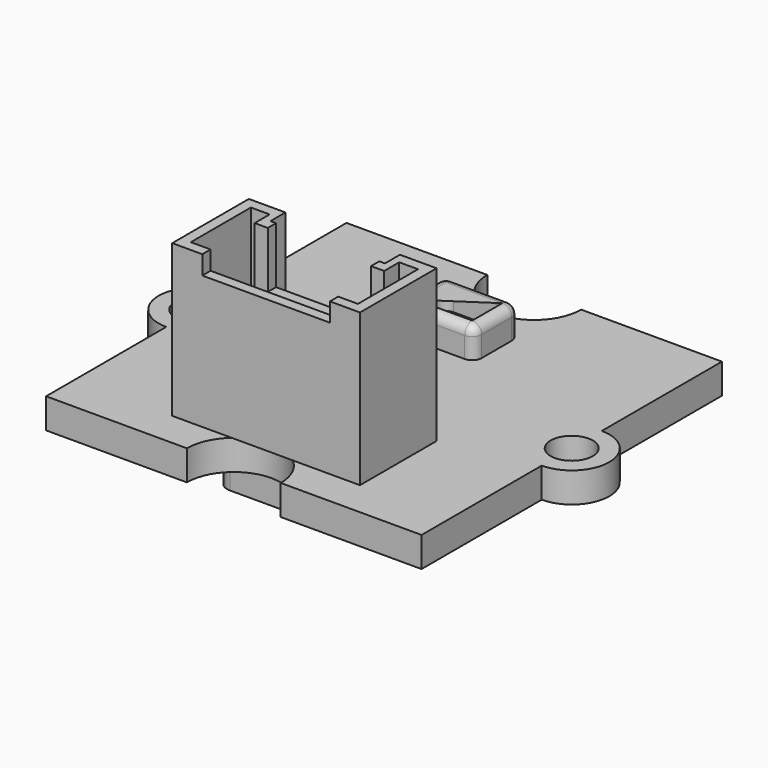
from build123d import *

# Parameters (mm, degrees)
PAD_DEPTH               = 1.6
SKETCH001_R             = 1.125
POCKET_DEPTH            = 1.601
PAD005_DEPTH            = 8.1
POCKET003_DEPTH         = 7
SKETCH010_W             = 6.8
SKETCH010_H             = 5
POCKET004_DEPTH         = 1
SKETCH011_W             = 5.5
SKETCH011_H             = 3
POCKET005_DEPTH         = 3
PAD006_DEPTH            = 4
PAD007_DEPTH            = 3.4
BODY005_PLACEMENT_ANGLE = 180
PAD008_DEPTH            = 1.6
FILLET_R                = 0.5


with BuildPart() as obj1:
    # Sketch → Pad (new body)
    with BuildSketch(Plane.XY):
        with BuildLine():
            Line((-10, 10), (-2.5, 10))
            ThreePointArc((-2.5, 10), (0, 7.5), (2.5, 10))
            Line((2.5, 10), (10, 10))
            Line((10, 10), (10, 2))
            ThreePointArc((10, -2), (12, 0), (10, 2))
            Line((10, -2), (10, -10))
            Line((10, -10), (2.5, -10))
            ThreePointArc((2.5, -10), (0, -7.5), (-2.5, -10))
            Line((-2.5, -10), (-10, -10))
            Line((-10, -10), (-10, -2))
            ThreePointArc((-10, 2), (-12, 0), (-10, -2))
            Line((-10, 10), (-10, 2))
        make_face()
    extrude(amount=PAD_DEPTH)

    # Sketch001 → Pocket (cut, through all)
    with BuildSketch(Plane.XY):
        with Locations((-10, 0)):
            Circle(SKETCH001_R)
        with Locations((10, 0)):
            Circle(SKETCH001_R)
    extrude(amount=POCKET_DEPTH, mode=Mode.SUBTRACT)


with BuildPart() as obj2:
    # Sketch008 → Pad005 (new body)
    with BuildSketch(Plane.XY):
        Polygon((-5, 0), (-3.05, 0), (-3.05, 1), (3.05, 1), (3.05, 0), (5, 0), (5, 5.1), (-5, 5.1), align=None)
    extrude(amount=PAD005_DEPTH)

    # Sketch009 (on Face10 of Pad005) → Pocket003 (cut)
    with BuildSketch(Plane.XY.offset(8.1)):
        Polygon((-4.45, 0.55), (-3.45, 0.55), (-3.45, 1.55), (3.45, 1.55), (3.45, 0.55), (4.45, 0.55), (4.45, 4.55), (-4.45, 4.55), align=None)
    extrude(amount=-POCKET003_DEPTH, mode=Mode.SUBTRACT)

    # Sketch010 (on Face5 of Pocket003) → Pocket004 (cut)
    with BuildSketch(Plane.XY.offset(8.1)):
        with Locations((0, 5.5)):
            Rectangle(SKETCH010_W, SKETCH010_H)
    extrude(amount=-POCKET004_DEPTH, mode=Mode.SUBTRACT)

    # Sketch011 (on Face5 of Pocket004) → Pocket005 (cut)
    with BuildSketch(Plane.XY.offset(8.1)):
        with Locations((0, 1.5)):
            Rectangle(SKETCH011_W, SKETCH011_H)
    extrude(amount=-POCKET005_DEPTH, mode=Mode.SUBTRACT)

    # Sketch012 (on Face26 of Pocket005) → Pad006 (join)
    with BuildSketch(Plane.XY.offset(1.1)):
        with BuildLine():
            ThreePointArc((-3.4, 3.25), (-3.65, 3), (-3.4, 2.75))
            Line((-3.4, 2.75), (3.4, 2.75))
            ThreePointArc((3.4, 2.75), (3.65, 3), (3.4, 3.25))
            Line((-3.4, 3.25), (3.4, 3.25))
        make_face()
    extrude(amount=PAD006_DEPTH)

    # Sketch013 → Pad007 (join)
    with BuildSketch(Plane.XY):
        with BuildLine():
            ThreePointArc((-3, 3.75), (-3.75, 3), (-3, 2.25))
            Line((-3, 2.25), (3, 2.25))
            ThreePointArc((3, 2.25), (3.75, 3), (3, 3.75))
            Line((-3, 3.75), (3, 3.75))
        make_face()
    extrude(amount=-PAD007_DEPTH)


with BuildPart() as obj2_1:
    # Body005 placement: moved
    add(obj2.part.moved(Location((0.2, -3, 1.6))).rotate(Axis((0.2, -3, 1.6), (0, 0, 1)), BODY005_PLACEMENT_ANGLE))


with BuildPart() as obj3:
    # Sketch014 → Pad008 (new body)
    with BuildSketch(Plane.XY):
        with BuildLine():
            Line((-1.5, 1.5), (1.5, 1.5))
            ThreePointArc((2, 1), (1.853553, 1.353553), (1.5, 1.5))
            Line((2, 1), (2, -1))
            ThreePointArc((1.5, -1.5), (1.853553, -1.353553), (2, -1))
            Line((1.5, -1.5), (-1.5, -1.5))
            ThreePointArc((-2, -1), (-1.853553, -1.353553), (-1.5, -1.5))
            Line((-2, -1), (-2, 1))
            ThreePointArc((-1.5, 1.5), (-1.853553, 1.353553), (-2, 1))
        make_face()
    extrude(amount=PAD008_DEPTH)

    # Fillet
    fillet_edges = [obj3.edges().sort_by_distance(p)[0] for p in [
        (0, 1.5, 1.6),
    ]]
    fillet(fillet_edges, radius=FILLET_R)


with BuildPart() as obj3_1:
    # Body006 placement: moved
    add(obj3.part.moved(Location((0, 5, 1.6))))


solid = Compound([obj1.part, obj2_1.part, obj3_1.part])
